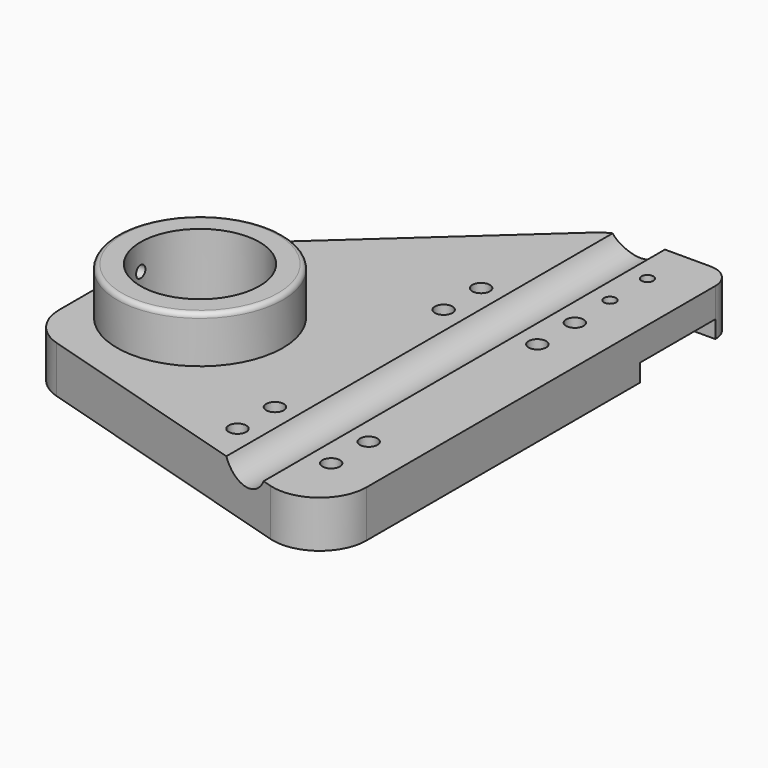
from build123d import *

# Parameters (mm, degrees)
F0_R      = 16.129
F1_DEPTH  = 12.7
F2_R      = 22.479
F2_R_2    = 16.129
F3_DEPTH  = 12.7
F5_D      = 3.2639
F5_DEPTH  = 19.05
F5_TIP    = 0.9805744872
F7_DEPTH  = 12.7
F8_R      = 12.7
F9_R      = 7.366
F10_DEPTH = 152.4
F11_R     = 1.27
F13_D     = 3.175
F13_DEPTH = 12.7
F13_TIP   = 0.9538662327
F15_D     = 4.7625
F15_DEPTH = 19.05
F15_TIP   = 1.4307993491
F16_W     = 25.4
F16_H     = 25.5016
F17_DEPTH = 4.7625


with BuildPart() as f1:
    # F0 (on Top) → F1 (new body)
    with BuildSketch(Plane.XY):
        with BuildLine():
            Line((0, 133.35), (0, 0))
            Line((0, 0), (95.25, 0))
            ThreePointArc((95.25, 0), (99.7401280605, 1.8598719395), (101.6, 6.35))
            Line((101.6, 6.35), (101.6, 133.35))
            ThreePointArc((101.6, 133.35), (99.7401280605, 137.8401280605), (95.25, 139.7))
            Line((95.25, 139.7), (6.35, 139.7))
            ThreePointArc((6.35, 139.7), (1.8598719395, 137.8401280605), (0, 133.35))
        make_face()
        with Locations((25.4, 53.975)):
            Circle(F0_R, mode=Mode.SUBTRACT)
    extrude(amount=F1_DEPTH)

    # F2 (on face) → F3 (join)
    with BuildSketch(Plane.XY.offset(12.7)):
        with Locations((25.4, 53.975)):
            Circle(F2_R)
        with Locations((25.4, 53.975)):
            Circle(F2_R_2, mode=Mode.SUBTRACT)
    extrude(amount=F3_DEPTH)

    # F5
    with Locations(Plane.XY.offset(12.7)):
        with Locations((88.265, 127), (88.265, 114.3)):
            Hole(F5_D / 2, depth=F5_DEPTH)
            with Locations((0, 0, -(F5_DEPTH + F5_TIP / 2))):  # 118° drill point
                Cone(0, F5_D / 2, F5_TIP, mode=Mode.SUBTRACT)

    # F6 (on face) → F7 (cut, through all)
    with BuildSketch(Plane.XY.offset(12.7)):
        Polygon((95.25, 0), (0, 28.575), (0, 0), align=None)
        Polygon((0, 139.7), (0, 76.2), (69.85, 139.7), align=None)
    extrude(amount=-F7_DEPTH, mode=Mode.SUBTRACT)

    # F8
    f8_edges = [f1.edges().sort_by_distance(p)[0] for p in [
        (0, 28.575, 6.35),
        (0, 76.2, 6.35),
        (69.85, 139.7, 6.35),
        (95.25, 0, 6.35),
    ]]
    fillet(f8_edges, radius=F8_R)

    # F9 (on Front) → F10 (cut)
    with BuildSketch(Plane.XZ):
        with Locations((76.2, 15.875)):
            Circle(F9_R)
    extrude(amount=-F10_DEPTH, mode=Mode.SUBTRACT)

    # F11
    f11_edges = [f1.edges().sort_by_distance(p)[0] for p in [
        (2.921, 53.975, 25.4),
    ]]
    fillet(f11_edges, radius=F11_R)

    # F13
    with Locations(Plane(origin=(0, 0, 0), x_dir=(0, 1, 0), z_dir=(-1, 0, 0))):
        with Locations((53.975, -18.3411143556)):
            Hole(F13_D / 2, depth=F13_DEPTH)
            with Locations((0, 0, -(F13_DEPTH + F13_TIP / 2))):  # 118° drill point
                Cone(0, F13_D / 2, F13_TIP, mode=Mode.SUBTRACT)

    # F15
    with Locations(Plane.XY.offset(12.7)):
        with Locations((88.9, 101.6), (88.9, 88.9), (63.5, 101.6), (63.5, 88.9), (63.5, 31.75), (63.5, 19.05), (88.9, 19.05), (88.9, 31.75)):
            Hole(F15_D / 2, depth=F15_DEPTH)
            with Locations((0, 0, -(F15_DEPTH + F15_TIP / 2))):  # 118° drill point
                Cone(0, F15_D / 2, F15_TIP, mode=Mode.SUBTRACT)

    # F16 (on face) → F17 (cut)
    with BuildSketch(Plane(origin=(0, 0, 0), x_dir=(1, 0, 0), z_dir=(0, 0, -1))):
        with Locations((88.9, -120.5992)):
            Rectangle(F16_W, F16_H)
    extrude(amount=-F17_DEPTH, mode=Mode.SUBTRACT)


solid = f1.part
